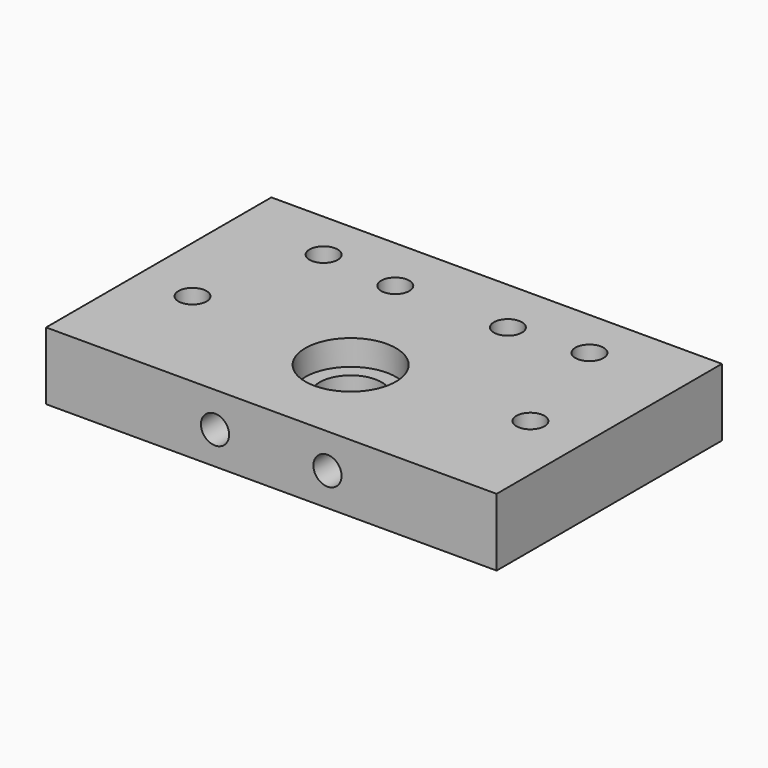
from build123d import *

# Parameters (mm, degrees)
SKETCH019_W     = 80
SKETCH019_H     = 50
SKETCH019_R     = 2.5
SKETCH019_R_2   = 5.5
PAD004_DEPTH    = 12
SKETCH020_R     = 2.5
POCKET012_DEPTH = 11
SKETCH021_R     = 8.05
POCKET013_DEPTH = 4.5
SKETCH022_R     = 4.6
SKETCH022_R_2   = 4.624594
SKETCH022_R_3   = 4.583454
SKETCH022_R_4   = 4.624604
POCKET014_DEPTH = 1.55


with BuildPart() as part:
    # Sketch019 → Pad004 (new body)
    with BuildSketch(Plane(origin=(80, 0, -12), x_dir=(-1, 0, 0), z_dir=(0, 0, 1))):
        with Locations((40, 25)):
            Rectangle(SKETCH019_W, SKETCH019_H)
        with Locations((10, 30)):
            Circle(SKETCH019_R, mode=Mode.SUBTRACT)
        with Locations((30, 10)):
            Circle(SKETCH019_R, mode=Mode.SUBTRACT)
        with Locations((16.4, 8.9)):
            Circle(SKETCH019_R, mode=Mode.SUBTRACT)
        with Locations((50, 10)):
            Circle(SKETCH019_R, mode=Mode.SUBTRACT)
        with Locations((63.6, 8.9)):
            Circle(SKETCH019_R, mode=Mode.SUBTRACT)
        with Locations((70, 30)):
            Circle(SKETCH019_R, mode=Mode.SUBTRACT)
        with Locations((40, 32.4)):
            Circle(SKETCH019_R_2, mode=Mode.SUBTRACT)
    extrude(amount=PAD004_DEPTH)

    # Sketch020 → Pocket012 (cut)
    with BuildSketch(Plane(origin=(80, -50, -12), x_dir=(1, 0, 0), z_dir=(0, -1, 0))):
        with Locations((-30.033846, 5.850095)):
            Circle(SKETCH020_R)
        with Locations((-50.003807, 5.788844)):
            Circle(SKETCH020_R)
    extrude(amount=-POCKET012_DEPTH, mode=Mode.SUBTRACT)

    # Sketch021 → Pocket013 (cut)
    with BuildSketch(Plane(origin=(80, 0, 0), x_dir=(-1, 0, 0), z_dir=(0, 0, 1))):
        with Locations((40, 32.4)):
            Circle(SKETCH021_R)
    extrude(amount=-POCKET013_DEPTH, mode=Mode.SUBTRACT)

    # Sketch022 → Pocket014 (cut)
    with BuildSketch(Plane(origin=(80, 0, -12), x_dir=(-1, 0, 0), z_dir=(0, 0, -1))):
        with Locations((10, -30)):
            Circle(SKETCH022_R)
        with Locations((70, -30)):
            Circle(SKETCH022_R_2)
        with Locations((30, -10)):
            Circle(SKETCH022_R_3)
        with Locations((50, -10)):
            Circle(SKETCH022_R_4)
    extrude(amount=-POCKET014_DEPTH, mode=Mode.SUBTRACT)


solid = part.part
